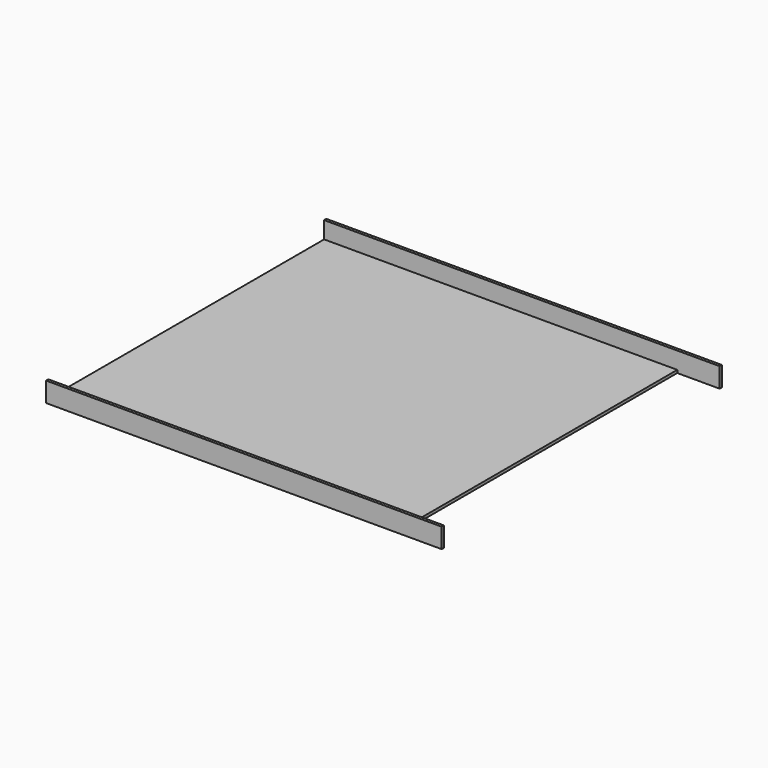
from build123d import *

# Parameters (mm, degrees)
F0_W     = 140
F0_H     = 124
F1_DEPTH = 7
F2_T     = -1
F3_W     = 122
F3_H     = 6
F4_DEPTH = 1
F5_W     = 122
F5_H     = 6
F6_DEPTH = 1
F7_W     = 15
F7_H     = 122
F8_DEPTH = 1


with BuildPart() as f1:
    # F0 (on Top) → F1 (new body)
    with BuildSketch(Plane.XY):
        with Locations((-18.4690234582, -1.8815491349)):
            Rectangle(F0_W, F0_H)
    extrude(amount=F1_DEPTH)

    # F2
    f2_openings = [f1.faces().sort_by_distance(p)[0] for p in [
        (-18.469023, -1.881549, 7),
    ]]
    offset(amount=F2_T, openings=f2_openings)

    # F3 (on face) → F4 (cut)
    with BuildSketch(Plane(origin=(-88.4690234582, 0, 0), x_dir=(0, -1, 0), z_dir=(-1, 0, 0))):
        with Locations((1.8815491349, 4)):
            Rectangle(F3_W, F3_H)
    extrude(amount=-F4_DEPTH, mode=Mode.SUBTRACT)

    # F5 (on face) → F6 (cut)
    with BuildSketch(Plane.YZ.offset(51.5309765418)):
        with Locations((-1.8815491349, 4)):
            Rectangle(F5_W, F5_H)
    extrude(amount=-F6_DEPTH, mode=Mode.SUBTRACT)

    # F7 (on face) → F8 (cut)
    with BuildSketch(Plane.XY.offset(1)):
        with Locations((44.0309765418, -1.8815491349)):
            Rectangle(F7_W, F7_H)
    extrude(amount=-F8_DEPTH, mode=Mode.SUBTRACT)


solid = f1.part
